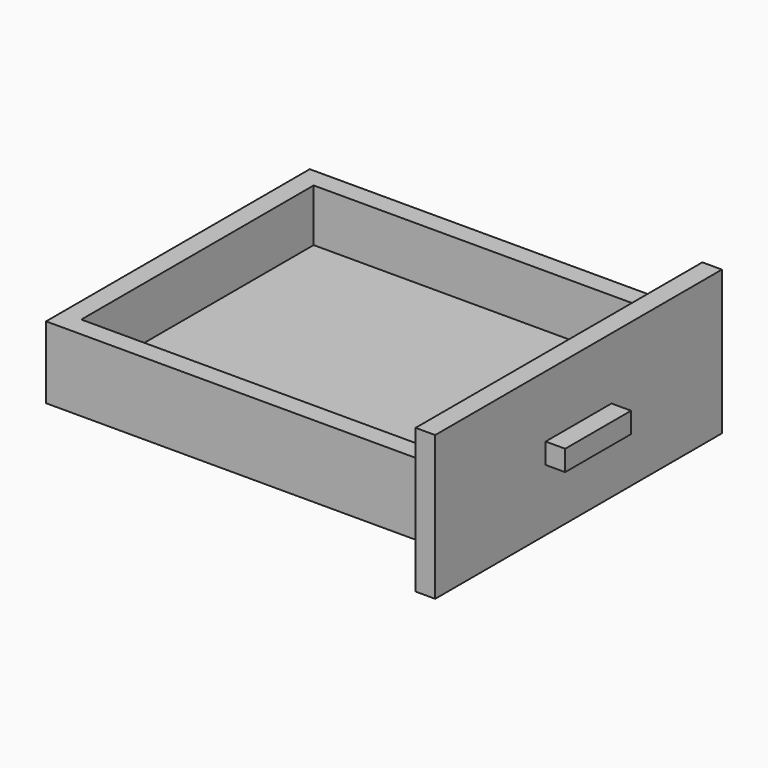
from build123d import *

# Parameters (mm, degrees)
F0_W     = 370
F0_H     = 320
F1_DEPTH = 70
F2_W     = 332
F2_H     = 282
F3_DEPTH = 51
F4_W     = 348
F4_H     = 140
F4_W_2   = 320
F4_H_2   = 70
F5_DEPTH = 19
F6_W     = 80
F6_H     = 20
F7_DEPTH = 19


with BuildPart() as f1:
    # F0 (on Top) → F1 (new body)
    with BuildSketch(Plane.XY):
        Rectangle(F0_W, F0_H)
    extrude(amount=F1_DEPTH)

    # F2 (on face) → F3 (cut)
    with BuildSketch(Plane.XY.offset(70)):
        Rectangle(F2_W, F2_H)
    extrude(amount=-F3_DEPTH, mode=Mode.SUBTRACT)

    # F4 (on face) → F5 (join)
    with BuildSketch(Plane.YZ.offset(185)):
        with Locations((0, 35)):
            Rectangle(F4_W, F4_H)
        with Locations((0, 35)):
            Rectangle(F4_W_2, F4_H_2, mode=Mode.SUBTRACT)
        with Locations((0, 35)):
            Rectangle(F4_W_2, F4_H_2)
    extrude(amount=F5_DEPTH)

    # F6 (on face) → F7 (join)
    with BuildSketch(Plane.YZ.offset(204)):
        with Locations((0, 35)):
            Rectangle(F6_W, F6_H)
    extrude(amount=F7_DEPTH)


solid = f1.part
